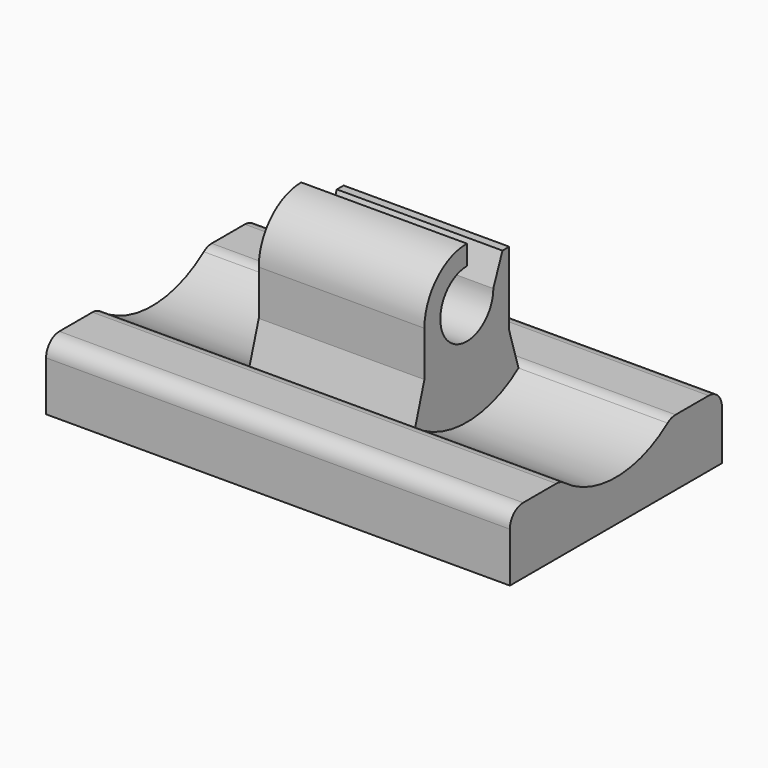
from build123d import *

# Parameters (mm, degrees)
F0_W      = 14
F0_H      = 8
F1_DEPTH  = 6
F3_DEPTH  = 25
F5_DEPTH  = 15
F6_R      = 0.5
F7_W      = 6
F7_H      = 6
F8_DEPTH  = 2.5
F10_DEPTH = 25


with BuildPart() as f1:
    # F0 (on Top) → F1 (new body)
    with BuildSketch(Plane.XY):
        Rectangle(F0_W, F0_H)
    extrude(amount=F1_DEPTH)

    # F2 (on face) → F3 (cut, symmetric)
    with BuildSketch(Plane(origin=(-7, 0, 0), x_dir=(0, -1, 0), z_dir=(-1, 0, 0))):
        with BuildLine():
            Line((-2.8831406487, 6), (2.8831406487, 6))
            ThreePointArc((2.8831406487, 6), (0, 7.75), (-2.8831406487, 6))
        make_face()
        with BuildLine():
            ThreePointArc((-2.8831406487, 6), (-0.7721052039, 1.3430467925), (3.25, 4.5))
            ThreePointArc((3.25, 4.5), (3.1569532075, 5.2721052039), (2.8831406487, 6))
            Line((2.8831406487, 6), (-2.8831406487, 6))
        make_face()
    extrude(amount=F3_DEPTH, both=True, mode=Mode.SUBTRACT)

    # F4 (on face) → F5 (cut, symmetric)
    with BuildSketch(Plane(origin=(-7, 0, 0), x_dir=(0, -1, 0), z_dir=(-1, 0, 0))):
        with BuildLine():
            Line((8.3296196082, 2), (8.3296196082, 11.0180403529))
            Line((8.3296196082, 11.0180403529), (-8.3296196082, 11.0180403529))
            Line((-8.3296196082, 11.0180403529), (-8.3296196082, 2))
            Line((-8.3296196082, 2), (-4, 2))
            Line((-4, 2), (-4, 6))
            Line((-4, 6), (-2.8831406487, 6))
            ThreePointArc((-2.8831406487, 6), (-3.1858900819, 3.8576571119), (-2.0766559657, 2))
            Line((-2.0766559657, 2), (2.0766559657, 2))
            ThreePointArc((2.0766559657, 2), (3.1858900819, 3.8576571119), (2.8831406487, 6))
            Line((2.8831406487, 6), (4, 6))
            Line((4, 6), (4, 2))
            Line((4, 2), (8.3296196082, 2))
        make_face()
        with BuildLine():
            Line((-4, 6), (-4, 2))
            Line((-4, 2), (-2.0766559657, 2))
            ThreePointArc((-2.0766559657, 2), (-3.1858900819, 3.8576571119), (-2.8831406487, 6))
            Line((-2.8831406487, 6), (-4, 6))
        make_face()
        with BuildLine():
            Line((2.0766559657, 2), (4, 2))
            Line((4, 2), (4, 6))
            Line((4, 6), (2.8831406487, 6))
            ThreePointArc((2.8831406487, 6), (3.1858900819, 3.8576571119), (2.0766559657, 2))
        make_face()
    extrude(amount=F5_DEPTH, both=True, mode=Mode.SUBTRACT)

    # F6
    f6_edges = [f1.edges().sort_by_distance(p)[0] for p in [
        (0, 4, 2),
        (0, 2.076656, 2),
        (0, -2.076656, 2),
        (0, -4, 2),
    ]]
    fillet(f6_edges, radius=F6_R)

    # F7 (on Right) → F8 (join, symmetric)
    with BuildSketch(Plane.YZ):
        with Locations((0, 3)):
            Rectangle(F7_W, F7_H)
    extrude(amount=F8_DEPTH, both=True)

    # F9 (on face) → F10 (cut)
    with BuildSketch(Plane(origin=(-2.5, 0, 0), x_dir=(0, -1, 0), z_dir=(-1, 0, 0))):
        with BuildLine():
            Line((-1.3447056541, 5.2670448107), (-1, 4.4))
            ThreePointArc((-1, 4.4), (0, 3.4), (1, 4.4))
            ThreePointArc((1, 4.4), (0.7071067812, 5.1071067812), (0, 5.4))
            Line((0, 5.4), (0, 6))
            Line((0, 6), (-3, 6))
            Line((-3, 6), (-3, 2))
            Line((-3, 2), (-2.25, 2))
            ThreePointArc((-2.25, 2), (-2.091886117, 1.974341649), (-1.95, 1.9))
            Line((-1.95, 1.9), (-1.6, 3.035565484))
            Line((-1.6, 3.035565484), (-1.6, 4.4))
            Line((-1.6, 4.4), (-1.6, 5.2670448107))
            Line((-1.6, 5.2670448107), (-1.3447056541, 5.2670448107))
        make_face()
        with BuildLine():
            ThreePointArc((0, 6), (1.1313708499, 5.5313708499), (1.6, 4.4))
            Line((1.6, 4.4), (1.6, 3.035565484))
            Line((1.6, 3.035565484), (1.95, 1.9))
            ThreePointArc((1.95, 1.9), (2.091886117, 1.974341649), (2.25, 2))
            Line((2.25, 2), (3, 2))
            Line((3, 2), (3, 6))
            Line((3, 6), (0, 6))
        make_face()
    extrude(amount=-F10_DEPTH, mode=Mode.SUBTRACT)


solid = f1.part
